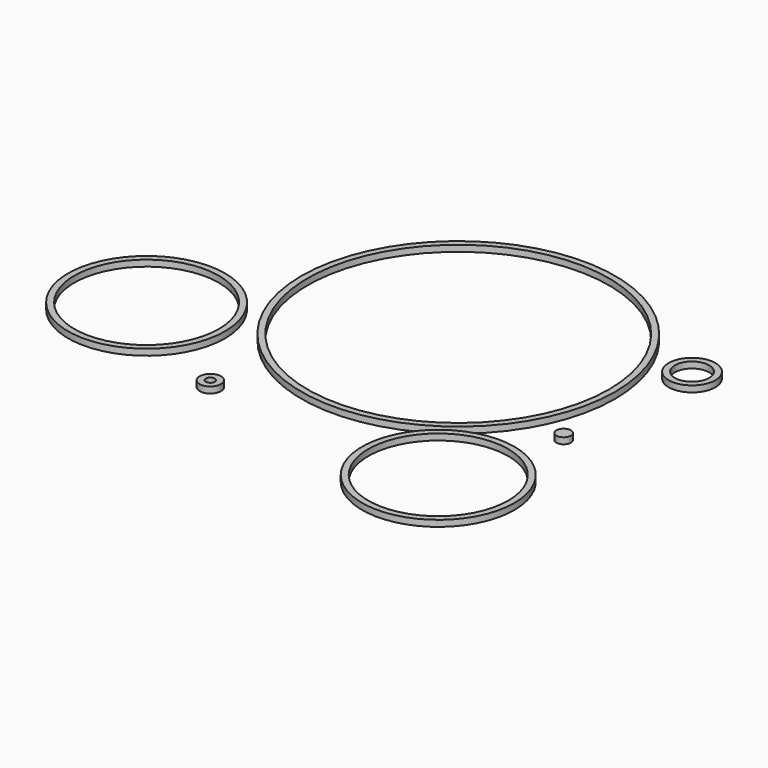
from build123d import *

# Parameters (mm, degrees)
F0_R     = 2.616988
F0_R_2   = 1.092988
F0_R_3   = 5.722914
F0_R_4   = 4.198914
F0_R_5   = 1.788436
F0_R_6   = 38.432366
F0_R_7   = 36.908366
F0_R_8   = 19.223085
F0_R_9   = 17.699085
F0_R_10  = 18.65776
F0_R_11  = 17.13376
F1_DEPTH = 1.524


with BuildPart() as f1:
    # F0 (on Top) → F1 (new body)
    with BuildSketch(Plane.XY):
        with Locations((-25.045646, -44.610664)):
            Circle(F0_R)
        with Locations((-25.045646, -44.610664)):
            Circle(F0_R_2, mode=Mode.SUBTRACT)
        with Locations((44.687416, 15.721921)):
            Circle(F0_R_3)
        with Locations((44.687416, 15.721921)):
            Circle(F0_R_4, mode=Mode.SUBTRACT)
        with Locations((41.391484, -19.469855)):
            Circle(F0_R_5)
        Circle(F0_R_6)
        Circle(F0_R_7, mode=Mode.SUBTRACT)
        with Locations((-54.709774, -27.044611)):
            Circle(F0_R_8)
        with Locations((-54.709774, -27.044611)):
            Circle(F0_R_9, mode=Mode.SUBTRACT)
        with Locations((33.48821, -47.988053)):
            Circle(F0_R_10)
        with Locations((33.48821, -47.988053)):
            Circle(F0_R_11, mode=Mode.SUBTRACT)
    extrude(amount=F1_DEPTH)


solid = f1.part
